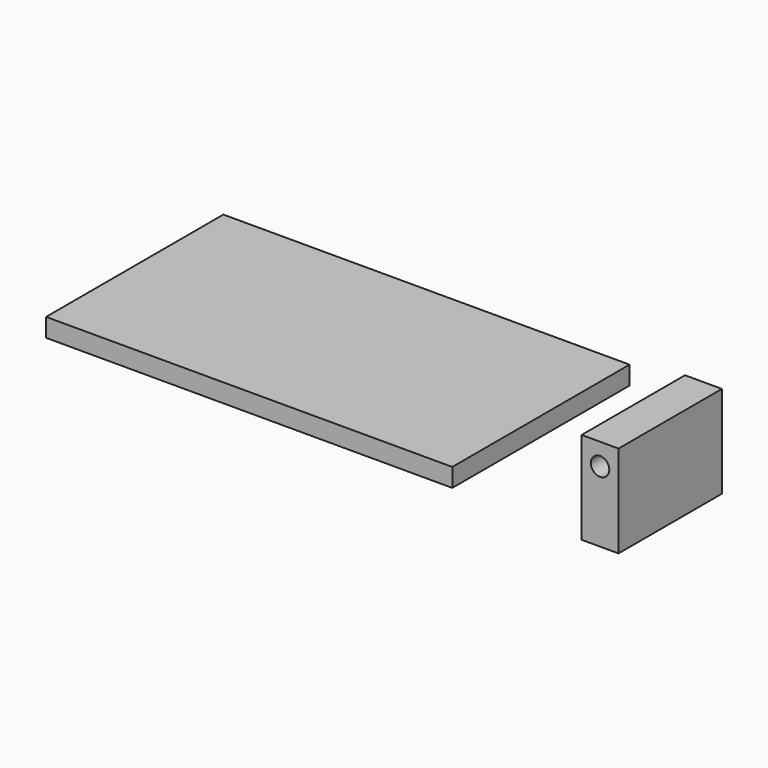
from build123d import *

# Parameters (mm, degrees)
F0_W     = 50.8
F0_H     = 177.8
F1_DEPTH = 127
F0_W_2   = 558.8
F0_H_2   = 304.8
F2_DEPTH = 25.4
F3_R     = 12.7
F4_DEPTH = 177.8


with BuildPart() as f1:
    # F0 (on Top) → F1 (new body)
    with BuildSketch(Plane.XY):
        with Locations((209.239962, 81.387412)):
            Rectangle(F0_W, F0_H)
    extrude(amount=F1_DEPTH)

    # F3 (on face) → F4 (cut, through all)
    with BuildSketch(Plane.XZ.offset(7.512588)):
        with Locations((209.239962, 97.138271)):
            Circle(F3_R)
    extrude(amount=-F4_DEPTH, mode=Mode.SUBTRACT)


with BuildPart() as f2:
    # F0 (on Top) → F2 (new body)
    with BuildSketch(Plane.XY):
        with Locations((-279.4, 152.4)):
            Rectangle(F0_W_2, F0_H_2)
    extrude(amount=F2_DEPTH)


solid = Compound([f1.part, f2.part])
